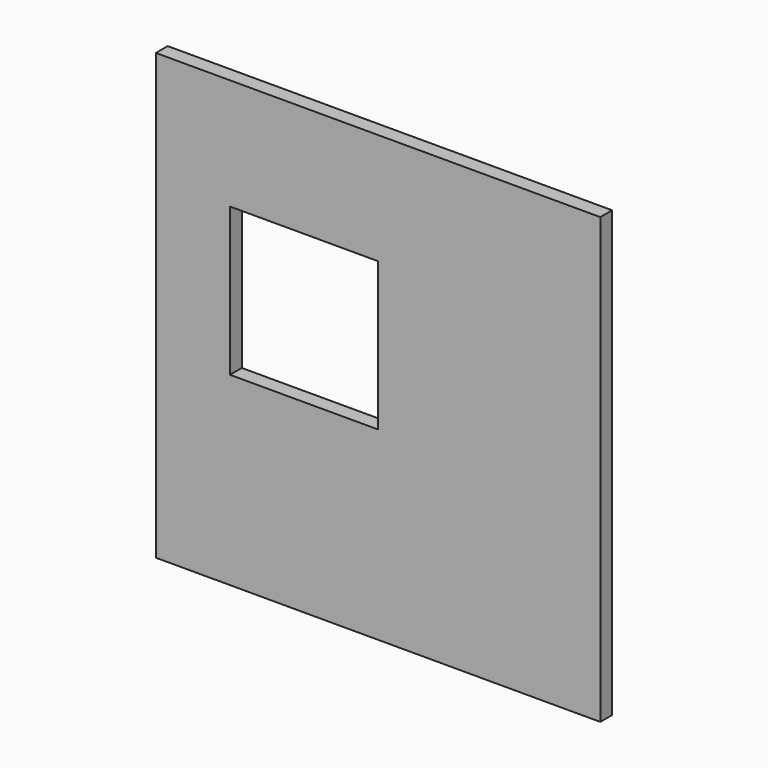
from build123d import *

# Parameters (mm, degrees)
F0_W     = 3000
F0_H     = 3000
F1_DEPTH = 50
F2_W     = 1000
F2_H     = 1000
F3_DEPTH = 100.001


with BuildPart() as f1:
    # F0 (on Front) → F1 (new body, symmetric)
    with BuildSketch(Plane.XZ):
        with Locations((0, 1500)):
            Rectangle(F0_W, F0_H)
    extrude(amount=F1_DEPTH, both=True)

    # F2 (on face) → F3 (cut, through all)
    with BuildSketch(Plane.XZ.offset(50)):
        with Locations((-500, 1750)):
            Rectangle(F2_W, F2_H)
    extrude(amount=-F3_DEPTH, mode=Mode.SUBTRACT)


solid = f1.part
